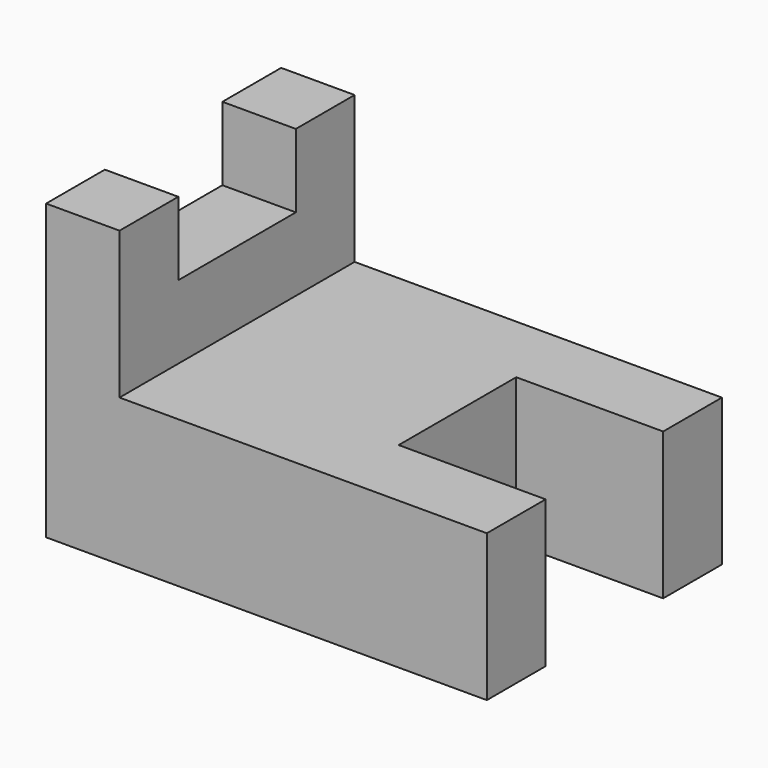
from build123d import *

# Parameters (mm, degrees)
F1_DEPTH = 25.4
F3_START = -6.35
F2_W     = 6.35
F2_H     = 6.35
F2_W_2   = 12.7
F2_H_2   = 12.7
F3_DEPTH = 12.7


with BuildPart() as f1:
    # F0 (on Front) → F1 (new body)
    with BuildSketch(Plane.XZ):
        Polygon((6.35, 25.4), (0, 25.4), (0, 0), (38.1, 0), (38.1, 12.7), (6.35, 12.7), align=None)
    extrude(amount=-F1_DEPTH)

    # F2 (on Front) → F3 (cut)
    with BuildSketch(Plane.XZ.offset(F3_START)):
        with Locations((3.175, 22.225)):
            Rectangle(F2_W, F2_H)
        with Locations((31.75, 6.35)):
            Rectangle(F2_W_2, F2_H_2)
    extrude(amount=-F3_DEPTH, mode=Mode.SUBTRACT)


solid = f1.part
